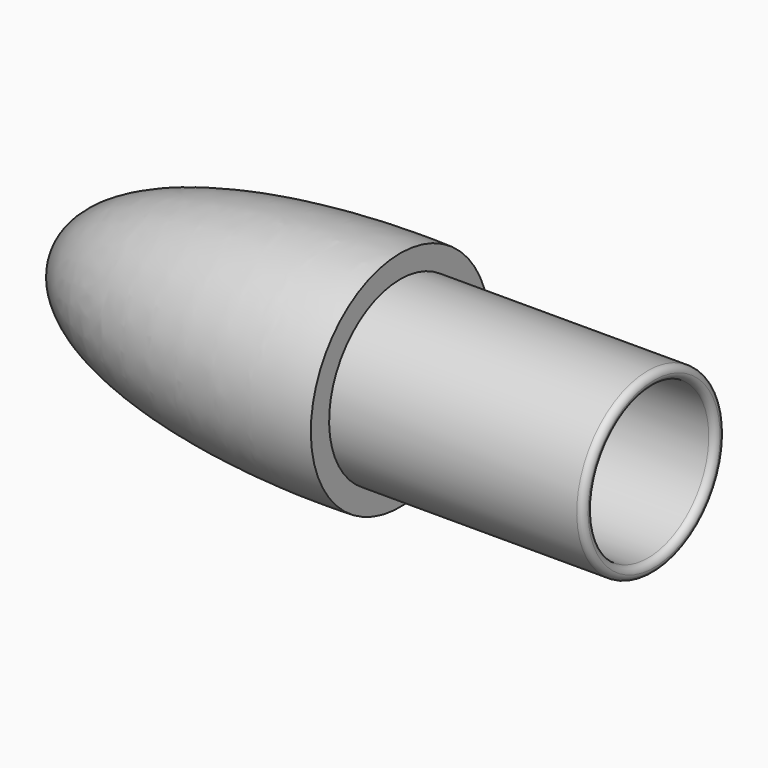
from build123d import *


with BuildPart() as f1:
    # F0 (on Front) → F1 (revolve)
    with BuildSketch(Plane.XZ):
        with BuildLine():
            Line((29.25, 10.5), (0, 10.5))
            Line((0, 10.5), (0, 13.2))
            add(Edge.make_bspline(
                [(0, 13.2), (-16.262645, 13.694484), (-39.864518, 10.448395), (-40, 0)],
                knots=[0, 0, 0, 0, 42.121728, 42.121728, 42.121728, 42.121728], degree=3))
            Line((-40, 0), (-38.5, 0))
            add(Edge.make_bspline(
                [(-4.916915, 11.7), (-12.511428, 12.097173), (-37.172131, 10.591797), (-38.5, 0)],
                knots=[0, 0, 0, 0, 35.562812, 35.562812, 35.562812, 35.562812], degree=3))
            add(Edge.make_bspline(
                [(-4.916915, 11.7), (-1.728877, 11.872013), (-2.475625, 9.143513), (0, 9)],
                knots=[0, 0, 0, 0, 5.609461, 5.609461, 5.609461, 5.609461], degree=3))
            Line((0, 9), (29.25, 9))
            ThreePointArc((29.25, 9), (29.78033, 9.21967), (30, 9.75))
            ThreePointArc((30, 9.75), (29.78033, 10.28033), (29.25, 10.5))
        make_face()
    revolve(axis=Axis((-34.192838, 0, 0), (-1, 0, 0)))


solid = f1.part
